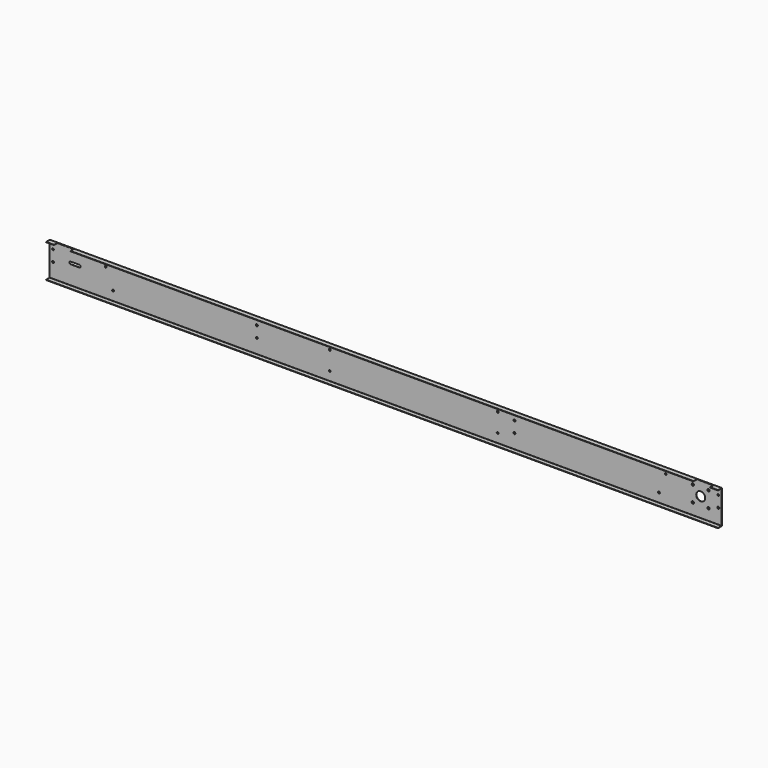
from build123d import *

# Parameters (mm, degrees)
F0_R     = 4.1
F0_R_2   = 5.2
F0_R_3   = 4.619431
F0_R_4   = 20
F1_DEPTH = 1.5
F2_W     = 3000
F2_H     = 1.5
F3_DEPTH = 20
F4_R     = 0.5
F5_R     = 4.25
F6_DEPTH = 21.501
F7_W     = 75
F7_H     = 21
F8_DEPTH = 1.5


with BuildPart() as f1:
    # F0 (on Front) → F1 (new body)
    with BuildSketch(Plane.XZ):
        Polygon((871.154863, 195.046515), (-1128.845137, 195.046515), (-2128.845137, 195.046515), (-2128.845137, 169.890946), (-2128.845137, 45.046515), (-1128.845137, 45.046515), (871.154863, 45.046515), align=None)
        with Locations((-1845.845137, 87.699787)):
            Circle(F0_R, mode=Mode.SUBTRACT)
        with Locations((-2113.845137, 113.046515)):
            Circle(F0_R, mode=Mode.SUBTRACT)
        with Locations((-878.845137, 86.546515)):
            Circle(F0_R, mode=Mode.SUBTRACT)
        with Locations((-128.845137, 86.546515)):
            Circle(F0_R, mode=Mode.SUBTRACT)
        with Locations((591.199606, 86.546515)):
            Circle(F0_R, mode=Mode.SUBTRACT)
        with Locations((742.675182, 97.016515)):
            Circle(F0_R_2, mode=Mode.SUBTRACT)
        with Locations((812.675182, 97.016515)):
            Circle(F0_R_2, mode=Mode.SUBTRACT)
        with Locations((856.199606, 112.546515)):
            Circle(F0_R_3, mode=Mode.SUBTRACT)
        with BuildLine():
            ThreePointArc((-1996.204941, 140.161261), (-1990.264413, 135.140534), (-1995.284902, 129.199805))
            Line((-1995.284902, 129.199805), (-2035.758988, 129.199805))
            ThreePointArc((-2035.758988, 129.199805), (-2041.245133, 134.706713), (-2035.745137, 140.199787))
            Line((-2035.745137, 140.199787), (-1996.204941, 140.161261))
        make_face(mode=Mode.SUBTRACT)
        with Locations((-2113.845137, 163.046515)):
            Circle(F0_R, mode=Mode.SUBTRACT)
        with Locations((-1878.845137, 170.699787)):
            Circle(F0_R, mode=Mode.SUBTRACT)
        with Locations((-878.845137, 169.546515)):
            Circle(F0_R, mode=Mode.SUBTRACT)
        with Locations((777.675182, 132.016515)):
            Circle(F0_R_4, mode=Mode.SUBTRACT)
        with Locations((-128.845137, 169.546515)):
            Circle(F0_R, mode=Mode.SUBTRACT)
        with Locations((856.175182, 162.546515)):
            Circle(F0_R, mode=Mode.SUBTRACT)
        with Locations((621.154863, 169.550618)):
            Circle(F0_R, mode=Mode.SUBTRACT)
        with Locations((742.675182, 167.016515)):
            Circle(F0_R_2, mode=Mode.SUBTRACT)
        with Locations((812.675182, 167.016515)):
            Circle(F0_R_2, mode=Mode.SUBTRACT)
    extrude(amount=F1_DEPTH)

    # F2 (on face) → F3 (join)
    with BuildSketch(Plane.XZ.offset(1.5)):
        with Locations((-628.845137, 194.296515)):
            Rectangle(F2_W, F2_H)
        with Locations((-628.845137, 45.796515)):
            Rectangle(F2_W, F2_H)
    extrude(amount=F3_DEPTH)

    # F4
    f4_edges = [f1.edges().sort_by_distance(p)[0] for p in [
        (-628.845137, -1.5, 193.546515),
        (-628.845137, 0, 45.046515),
        (-628.845137, -1.5, 46.546515),
        (-628.845137, 0, 195.046515),
    ]]
    fillet(f4_edges, radius=F4_R)

    # F5 (on face) → F6 (cut, through all)
    with BuildSketch(Plane(origin=(0, 0, 0), x_dir=(-1, 0, 0), z_dir=(0, 1, 0))):
        with Locations((1203.845137, 160.046515)):
            Circle(F5_R)
        with Locations((1203.845137, 110.046515)):
            Circle(F5_R)
        with Locations((53.845137, 160.046515)):
            Circle(F5_R)
        with Locations((53.845137, 110.046515)):
            Circle(F5_R)
    extrude(amount=-F6_DEPTH, mode=Mode.SUBTRACT)

    # F7 (on face) → F8 (cut)
    with BuildSketch(Plane.XY.offset(195.046515)):
        with Locations((798.654863, -11)):
            Rectangle(F7_W, F7_H)
        with Locations((-2056.345137, -11)):
            Rectangle(F7_W, F7_H)
    extrude(amount=-F8_DEPTH, mode=Mode.SUBTRACT)


solid = f1.part
